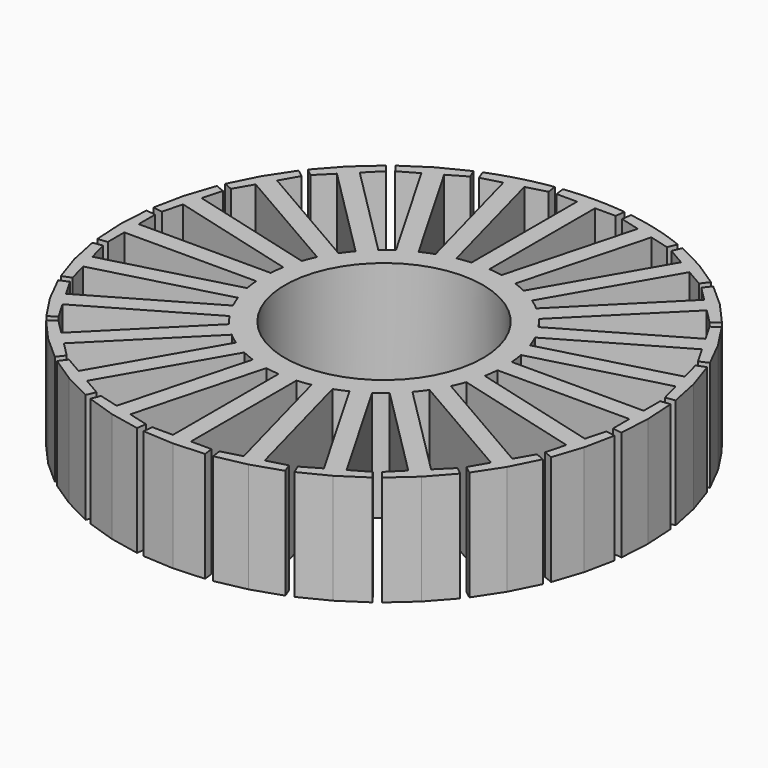
from build123d import *

# Parameters (mm, degrees)
F0_R     = 22.5
F1_DEPTH = 25


with BuildPart() as f1:
    # F0 (on Top) → F1 (new body)
    with BuildSketch(Plane.XY):
        with BuildLine():
            Line((0, 60), (7, 59.590268))
            ThreePointArc((7, 59.590268), (3.505991, 59.897479), (0, 60))
        make_face()
        with BuildLine():
            Line((6.745611, 57.424678), (7, 59.590268))
            Line((7, 59.590268), (0, 60))
            Line((0, 60), (-6.98808, 59.591667))
            Line((-6.98808, 59.591667), (-6.733966, 57.424678))
            Line((-6.733966, 57.424678), (-2.033966, 57.424678))
            Line((-2.033966, 57.424678), (-2.033966, 27.424678))
            ThreePointArc((-2.033966, 27.424678), (-3.58947, 27.264734), (-5.133369, 27.016634))
            ThreePointArc((-5.133369, 27.016634), (-7.117524, 26.56296), (-9.062689, 25.963776))
            ThreePointArc((-9.062689, 25.963776), (-10.523794, 25.406687), (-11.950873, 24.767451))
            ThreePointArc((-11.950873, 24.767451), (-13.75, 23.815699), (-15.473805, 22.733485))
            ThreePointArc((-15.473805, 22.733485), (-16.740939, 21.817217), (-17.953945, 20.830407))
            ThreePointArc((-17.953945, 20.830407), (-19.445436, 19.445436), (-20.830407, 17.953945))
            ThreePointArc((-20.830407, 17.953945), (-21.817217, 16.740939), (-22.733485, 15.473805))
            ThreePointArc((-22.733485, 15.473805), (-23.815699, 13.75), (-24.767451, 11.950873))
            ThreePointArc((-24.767451, 11.950873), (-25.406687, 10.523794), (-25.963776, 9.062689))
            ThreePointArc((-25.963776, 9.062689), (-26.56296, 7.117524), (-27.016634, 5.133369))
            ThreePointArc((-27.016634, 5.133369), (-27.264734, 3.58947), (-27.424678, 2.033966))
            ThreePointArc((-27.424678, 2.033966), (-27.5, 0), (-27.424678, -2.033966))
            ThreePointArc((-27.424678, -2.033966), (-27.264734, -3.58947), (-27.016634, -5.133369))
            ThreePointArc((-27.016634, -5.133369), (-26.56296, -7.117524), (-25.963776, -9.062689))
            ThreePointArc((-25.963776, -9.062689), (-25.406687, -10.523794), (-24.767451, -11.950873))
            ThreePointArc((-24.767451, -11.950873), (-23.815699, -13.75), (-22.733485, -15.473805))
            ThreePointArc((-22.733485, -15.473805), (-21.817217, -16.740939), (-20.830407, -17.953945))
            ThreePointArc((-20.830407, -17.953945), (-19.445436, -19.445436), (-17.953945, -20.830407))
            ThreePointArc((-17.953945, -20.830407), (-16.740939, -21.817217), (-15.473805, -22.733485))
            ThreePointArc((-15.473805, -22.733485), (-13.75, -23.815699), (-11.950873, -24.767451))
            ThreePointArc((-11.950873, -24.767451), (-10.523794, -25.406687), (-9.062689, -25.963776))
            ThreePointArc((-9.062689, -25.963776), (-7.117524, -26.56296), (-5.133369, -27.016634))
            ThreePointArc((-5.133369, -27.016634), (-3.58947, -27.264734), (-2.033966, -27.424678))
            ThreePointArc((-2.033966, -27.424678), (0, -27.5), (2.033966, -27.424678))
            ThreePointArc((2.033966, -27.424678), (3.58947, -27.264734), (5.133369, -27.016634))
            ThreePointArc((5.133369, -27.016634), (7.117524, -26.56296), (9.062689, -25.963776))
            ThreePointArc((9.062689, -25.963776), (10.523794, -25.406687), (11.950873, -24.767451))
            ThreePointArc((11.950873, -24.767451), (13.75, -23.815699), (15.473805, -22.733485))
            ThreePointArc((15.473805, -22.733485), (16.740939, -21.817217), (17.953945, -20.830407))
            ThreePointArc((17.953945, -20.830407), (19.445436, -19.445436), (20.830407, -17.953945))
            ThreePointArc((20.830407, -17.953945), (21.817217, -16.740939), (22.733485, -15.473805))
            ThreePointArc((22.733485, -15.473805), (23.815699, -13.75), (24.767451, -11.950873))
            ThreePointArc((24.767451, -11.950873), (25.406687, -10.523794), (25.963776, -9.062689))
            ThreePointArc((25.963776, -9.062689), (26.56296, -7.117524), (27.016634, -5.133369))
            ThreePointArc((27.016634, -5.133369), (27.264734, -3.58947), (27.424678, -2.033966))
            ThreePointArc((27.424678, -2.033966), (27.5, 0), (27.424678, 2.033966))
            ThreePointArc((27.424678, 2.033966), (27.264734, 3.58947), (27.016634, 5.133369))
            ThreePointArc((27.016634, 5.133369), (26.56296, 7.117524), (25.963776, 9.062689))
            ThreePointArc((25.963776, 9.062689), (25.406687, 10.523794), (24.767451, 11.950873))
            ThreePointArc((24.767451, 11.950873), (23.815699, 13.75), (22.733485, 15.473805))
            ThreePointArc((22.733485, 15.473805), (21.817217, 16.740939), (20.830407, 17.953945))
            ThreePointArc((20.830407, 17.953945), (19.445436, 19.445436), (17.953945, 20.830407))
            ThreePointArc((17.953945, 20.830407), (16.740939, 21.817217), (15.473805, 22.733485))
            ThreePointArc((15.473805, 22.733485), (13.75, 23.815699), (11.950873, 24.767451))
            ThreePointArc((11.950873, 24.767451), (10.523794, 25.406687), (9.062689, 25.963776))
            ThreePointArc((9.062689, 25.963776), (7.117524, 26.56296), (5.133369, 27.016634))
            ThreePointArc((5.133369, 27.016634), (3.58947, 27.264734), (2.033966, 27.424678))
            Line((2.033966, 27.424678), (2.045611, 57.424678))
            Line((2.045611, 57.424678), (6.745611, 57.424678))
        make_face()
        Circle(F0_R, mode=Mode.SUBTRACT)
        with BuildLine():
            Line((-6.98808, 59.591667), (0, 60))
            ThreePointArc((0, 60), (-3.5, 59.89783), (-6.98808, 59.591667))
        make_face()
        with BuildLine():
            Line((12.89794, 55.994409), (5.133369, 27.016634))
            ThreePointArc((5.133369, 27.016634), (7.117524, 26.56296), (9.062689, 25.963776))
            Line((9.062689, 25.963776), (16.838509, 54.938537))
            Line((16.838509, 54.938537), (21.37836, 53.722087))
            Line((21.37836, 53.722087), (22.184577, 55.748045))
            Line((22.184577, 55.748045), (15.529143, 57.95555))
            Line((15.529143, 57.95555), (8.673491, 59.369778))
            Line((8.673491, 59.369778), (8.358089, 57.210859))
            Line((8.358089, 57.210859), (12.89794, 55.994409))
        make_face()
        with BuildLine():
            ThreePointArc((-9.062689, 25.963776), (-7.117524, 26.56296), (-5.133369, 27.016634))
            Line((-5.133369, 27.016634), (-12.886692, 55.997423))
            Line((-12.886692, 55.997423), (-8.346841, 57.213872))
            Line((-8.346841, 57.213872), (-8.661615, 59.371512))
            Line((-8.661615, 59.371512), (-15.529143, 57.95555))
            Line((-15.529143, 57.95555), (-22.173425, 55.752482))
            Line((-22.173425, 55.752482), (-21.367112, 53.725101))
            Line((-21.367112, 53.725101), (-16.827261, 54.941551))
            Line((-16.827261, 54.941551), (-9.062689, 25.963776))
        make_face()
        with BuildLine():
            Line((26.950873, 50.748213), (11.950873, 24.767451))
            ThreePointArc((11.950873, 24.767451), (13.75, 23.815699), (15.473805, 22.733485))
            Line((15.473805, 22.733485), (30.48389, 48.708425))
            Line((30.48389, 48.708425), (34.554209, 46.358425))
            Line((34.554209, 46.358425), (35.857312, 48.106686))
            Line((35.857312, 48.106686), (30, 51.961524))
            Line((30, 51.961524), (23.743978, 55.101937))
            Line((23.743978, 55.101937), (22.880554, 53.098213))
            Line((22.880554, 53.098213), (26.950873, 50.748213))
        make_face()
        with BuildLine():
            ThreePointArc((15.529143, 57.95555), (12.121959, 58.762727), (8.673491, 59.369778))
            Line((8.673491, 59.369778), (15.529143, 57.95555))
        make_face()
        with BuildLine():
            ThreePointArc((-15.473805, 22.733485), (-13.75, 23.815699), (-11.950873, 24.767451))
            Line((-11.950873, 24.767451), (-26.940788, 50.754036))
            Line((-26.940788, 50.754036), (-22.870469, 53.104036))
            Line((-22.870469, 53.104036), (-23.732956, 55.106686))
            Line((-23.732956, 55.106686), (-30, 51.961524))
            Line((-30, 51.961524), (-35.847688, 48.113857))
            Line((-35.847688, 48.113857), (-34.544125, 46.364247))
            Line((-34.544125, 46.364247), (-30.473805, 48.714247))
            Line((-30.473805, 48.714247), (-15.473805, 22.733485))
        make_face()
        with BuildLine():
            Line((39.167148, 42.043611), (17.953945, 20.830407))
            ThreePointArc((17.953945, 20.830407), (19.445436, 19.445436), (20.830407, 17.953945))
            Line((20.830407, 17.953945), (42.051845, 39.158914))
            Line((42.051845, 39.158914), (45.375247, 35.835512))
            Line((45.375247, 35.835512), (47.08643, 37.186935))
            Line((47.08643, 37.186935), (42.426407, 42.426407))
            Line((42.426407, 42.426407), (37.196353, 47.07899))
            Line((37.196353, 47.07899), (35.843746, 45.367012))
            Line((35.843746, 45.367012), (39.167148, 42.043611))
        make_face()
        with BuildLine():
            Line((15.529143, 57.95555), (22.184577, 55.748045))
            ThreePointArc((22.184577, 55.748045), (18.889135, 56.949105), (15.529143, 57.95555))
        make_face()
        with BuildLine():
            Line((-15.529143, 57.95555), (-8.661615, 59.371512))
            ThreePointArc((-8.661615, 59.371512), (-12.116082, 58.763939), (-15.529143, 57.95555))
        make_face()
        with BuildLine():
            ThreePointArc((-20.830407, 17.953945), (-19.445436, 19.445436), (-17.953945, 20.830407))
            Line((-17.953945, 20.830407), (-39.158914, 42.051845))
            Line((-39.158914, 42.051845), (-35.835512, 45.375247))
            Line((-35.835512, 45.375247), (-37.186935, 47.08643))
            Line((-37.186935, 47.08643), (-42.426407, 42.426407))
            Line((-42.426407, 42.426407), (-47.07899, 37.196353))
            Line((-47.07899, 37.196353), (-45.367012, 35.843746))
            Line((-45.367012, 35.843746), (-42.043611, 39.167148))
            Line((-42.043611, 39.167148), (-20.830407, 17.953945))
        make_face()
        with BuildLine():
            ThreePointArc((-15.529143, 57.95555), (-18.883439, 56.950994), (-22.173425, 55.752482))
            Line((-22.173425, 55.752482), (-15.529143, 57.95555))
        make_face()
        with BuildLine():
            Line((48.714247, 30.473805), (22.733485, 15.473805))
            ThreePointArc((22.733485, 15.473805), (23.815699, 13.75), (24.767451, 11.950873))
            Line((24.767451, 11.950873), (50.754036, 26.940788))
            Line((50.754036, 26.940788), (53.104036, 22.870469))
            Line((53.104036, 22.870469), (55.106686, 23.732956))
            Line((55.106686, 23.732956), (51.961524, 30))
            Line((51.961524, 30), (48.113857, 35.847688))
            Line((48.113857, 35.847688), (46.364247, 34.544125))
            Line((46.364247, 34.544125), (48.714247, 30.473805))
        make_face()
        with BuildLine():
            ThreePointArc((-24.767451, 11.950873), (-23.815699, 13.75), (-22.733485, 15.473805))
            Line((-22.733485, 15.473805), (-48.708425, 30.48389))
            Line((-48.708425, 30.48389), (-46.358425, 34.554209))
            Line((-46.358425, 34.554209), (-48.106686, 35.857312))
            Line((-48.106686, 35.857312), (-51.961524, 30))
            Line((-51.961524, 30), (-55.101937, 23.743978))
            Line((-55.101937, 23.743978), (-53.098213, 22.880554))
            Line((-53.098213, 22.880554), (-50.748213, 26.950873))
            Line((-50.748213, 26.950873), (-24.767451, 11.950873))
        make_face()
        with BuildLine():
            Line((54.941551, 16.827261), (25.963776, 9.062689))
            ThreePointArc((25.963776, 9.062689), (26.56296, 7.117524), (27.016634, 5.133369))
            Line((27.016634, 5.133369), (55.997423, 12.886692))
            Line((55.997423, 12.886692), (57.213872, 8.346841))
            Line((57.213872, 8.346841), (59.371512, 8.661615))
            Line((59.371512, 8.661615), (57.95555, 15.529143))
            Line((57.95555, 15.529143), (55.752482, 22.173425))
            Line((55.752482, 22.173425), (53.725101, 21.367112))
            Line((53.725101, 21.367112), (54.941551, 16.827261))
        make_face()
        with BuildLine():
            ThreePointArc((-27.016634, 5.133369), (-26.56296, 7.117524), (-25.963776, 9.062689))
            Line((-25.963776, 9.062689), (-54.938537, 16.838509))
            Line((-54.938537, 16.838509), (-53.722087, 21.37836))
            Line((-53.722087, 21.37836), (-55.748045, 22.184577))
            Line((-55.748045, 22.184577), (-57.95555, 15.529143))
            Line((-57.95555, 15.529143), (-59.369778, 8.673491))
            Line((-59.369778, 8.673491), (-57.210859, 8.358089))
            Line((-57.210859, 8.358089), (-55.994409, 12.89794))
            Line((-55.994409, 12.89794), (-27.016634, 5.133369))
        make_face()
        with BuildLine():
            Line((57.424678, 2.033966), (27.424678, 2.033966))
            ThreePointArc((27.424678, 2.033966), (27.5, 0), (27.424678, -2.033966))
            Line((27.424678, -2.033966), (57.424678, -2.045611))
            Line((57.424678, -2.045611), (57.424678, -6.745611))
            Line((57.424678, -6.745611), (59.590268, -7))
            Line((59.590268, -7), (60, 0))
            Line((60, 0), (59.591667, 6.98808))
            Line((59.591667, 6.98808), (57.424678, 6.733966))
            Line((57.424678, 6.733966), (57.424678, 2.033966))
        make_face()
        with BuildLine():
            ThreePointArc((-27.424678, -2.033966), (-27.5, 0), (-27.424678, 2.033966))
            Line((-27.424678, 2.033966), (-57.424678, 2.045611))
            Line((-57.424678, 2.045611), (-57.424678, 6.745611))
            Line((-57.424678, 6.745611), (-59.590268, 7))
            Line((-59.590268, 7), (-60, 0))
            Line((-60, 0), (-59.591667, -6.98808))
            Line((-59.591667, -6.98808), (-57.424678, -6.733966))
            Line((-57.424678, -6.733966), (-57.424678, -2.033966))
            Line((-57.424678, -2.033966), (-27.424678, -2.033966))
        make_face()
        with BuildLine():
            Line((55.994409, -12.89794), (27.016634, -5.133369))
            ThreePointArc((27.016634, -5.133369), (26.56296, -7.117524), (25.963776, -9.062689))
            Line((25.963776, -9.062689), (54.938537, -16.838509))
            Line((54.938537, -16.838509), (53.722087, -21.37836))
            Line((53.722087, -21.37836), (55.748045, -22.184577))
            Line((55.748045, -22.184577), (57.95555, -15.529143))
            Line((57.95555, -15.529143), (59.369778, -8.673491))
            Line((59.369778, -8.673491), (57.210859, -8.358089))
            Line((57.210859, -8.358089), (55.994409, -12.89794))
        make_face()
        with BuildLine():
            ThreePointArc((-25.963776, -9.062689), (-26.56296, -7.117524), (-27.016634, -5.133369))
            Line((-27.016634, -5.133369), (-55.997423, -12.886692))
            Line((-55.997423, -12.886692), (-57.213872, -8.346841))
            Line((-57.213872, -8.346841), (-59.371512, -8.661615))
            Line((-59.371512, -8.661615), (-57.95555, -15.529143))
            Line((-57.95555, -15.529143), (-55.752482, -22.173425))
            Line((-55.752482, -22.173425), (-53.725101, -21.367112))
            Line((-53.725101, -21.367112), (-54.941551, -16.827261))
            Line((-54.941551, -16.827261), (-25.963776, -9.062689))
        make_face()
        with BuildLine():
            Line((50.748213, -26.950873), (24.767451, -11.950873))
            ThreePointArc((24.767451, -11.950873), (23.815699, -13.75), (22.733485, -15.473805))
            Line((22.733485, -15.473805), (48.708425, -30.48389))
            Line((48.708425, -30.48389), (46.358425, -34.554209))
            Line((46.358425, -34.554209), (48.106686, -35.857312))
            Line((48.106686, -35.857312), (51.961524, -30))
            Line((51.961524, -30), (55.101937, -23.743978))
            Line((55.101937, -23.743978), (53.098213, -22.880554))
            Line((53.098213, -22.880554), (50.748213, -26.950873))
        make_face()
        with BuildLine():
            ThreePointArc((-22.733485, -15.473805), (-23.815699, -13.75), (-24.767451, -11.950873))
            Line((-24.767451, -11.950873), (-50.754036, -26.940788))
            Line((-50.754036, -26.940788), (-53.104036, -22.870469))
            Line((-53.104036, -22.870469), (-55.106686, -23.732956))
            Line((-55.106686, -23.732956), (-51.961524, -30))
            Line((-51.961524, -30), (-48.113857, -35.847688))
            Line((-48.113857, -35.847688), (-46.364247, -34.544125))
            Line((-46.364247, -34.544125), (-48.714247, -30.473805))
            Line((-48.714247, -30.473805), (-22.733485, -15.473805))
        make_face()
        with BuildLine():
            Line((42.043611, -39.167148), (20.830407, -17.953945))
            ThreePointArc((20.830407, -17.953945), (19.445436, -19.445436), (17.953945, -20.830407))
            Line((17.953945, -20.830407), (39.158914, -42.051845))
            Line((39.158914, -42.051845), (35.835512, -45.375247))
            Line((35.835512, -45.375247), (37.186935, -47.08643))
            Line((37.186935, -47.08643), (42.426407, -42.426407))
            Line((42.426407, -42.426407), (47.07899, -37.196353))
            Line((47.07899, -37.196353), (45.367012, -35.843746))
            Line((45.367012, -35.843746), (42.043611, -39.167148))
        make_face()
        with BuildLine():
            ThreePointArc((-17.953945, -20.830407), (-19.445436, -19.445436), (-20.830407, -17.953945))
            Line((-20.830407, -17.953945), (-42.051845, -39.158914))
            Line((-42.051845, -39.158914), (-45.375247, -35.835512))
            Line((-45.375247, -35.835512), (-47.08643, -37.186935))
            Line((-47.08643, -37.186935), (-42.426407, -42.426407))
            Line((-42.426407, -42.426407), (-37.196353, -47.07899))
            Line((-37.196353, -47.07899), (-35.843746, -45.367012))
            Line((-35.843746, -45.367012), (-39.167148, -42.043611))
            Line((-39.167148, -42.043611), (-17.953945, -20.830407))
        make_face()
        with BuildLine():
            Line((30.473805, -48.714247), (15.473805, -22.733485))
            ThreePointArc((15.473805, -22.733485), (13.75, -23.815699), (11.950873, -24.767451))
            Line((11.950873, -24.767451), (26.940788, -50.754036))
            Line((26.940788, -50.754036), (22.870469, -53.104036))
            Line((22.870469, -53.104036), (23.732956, -55.106686))
            Line((23.732956, -55.106686), (30, -51.961524))
            Line((30, -51.961524), (35.847688, -48.113857))
            Line((35.847688, -48.113857), (34.544125, -46.364247))
            Line((34.544125, -46.364247), (30.473805, -48.714247))
        make_face()
        with BuildLine():
            ThreePointArc((-11.950873, -24.767451), (-13.75, -23.815699), (-15.473805, -22.733485))
            Line((-15.473805, -22.733485), (-30.48389, -48.708425))
            Line((-30.48389, -48.708425), (-34.554209, -46.358425))
            Line((-34.554209, -46.358425), (-35.857312, -48.106686))
            Line((-35.857312, -48.106686), (-30, -51.961524))
            Line((-30, -51.961524), (-23.743978, -55.101937))
            Line((-23.743978, -55.101937), (-22.880554, -53.098213))
            Line((-22.880554, -53.098213), (-26.950873, -50.748213))
            Line((-26.950873, -50.748213), (-11.950873, -24.767451))
        make_face()
        with BuildLine():
            Line((16.827261, -54.941551), (9.062689, -25.963776))
            ThreePointArc((9.062689, -25.963776), (7.117524, -26.56296), (5.133369, -27.016634))
            Line((5.133369, -27.016634), (12.886692, -55.997423))
            Line((12.886692, -55.997423), (8.346841, -57.213872))
            Line((8.346841, -57.213872), (8.661615, -59.371512))
            Line((8.661615, -59.371512), (15.529143, -57.95555))
            Line((15.529143, -57.95555), (22.173425, -55.752482))
            Line((22.173425, -55.752482), (21.367112, -53.725101))
            Line((21.367112, -53.725101), (16.827261, -54.941551))
        make_face()
        with BuildLine():
            ThreePointArc((-5.133369, -27.016634), (-7.117524, -26.56296), (-9.062689, -25.963776))
            Line((-9.062689, -25.963776), (-16.838509, -54.938537))
            Line((-16.838509, -54.938537), (-21.37836, -53.722087))
            Line((-21.37836, -53.722087), (-22.184577, -55.748045))
            Line((-22.184577, -55.748045), (-15.529143, -57.95555))
            Line((-15.529143, -57.95555), (-8.673491, -59.369778))
            Line((-8.673491, -59.369778), (-8.358089, -57.210859))
            Line((-8.358089, -57.210859), (-12.89794, -55.994409))
            Line((-12.89794, -55.994409), (-5.133369, -27.016634))
        make_face()
        with BuildLine():
            Line((2.033966, -57.424678), (2.033966, -27.424678))
            ThreePointArc((2.033966, -27.424678), (0, -27.5), (-2.033966, -27.424678))
            Line((-2.033966, -27.424678), (-2.045611, -57.424678))
            Line((-2.045611, -57.424678), (-6.745611, -57.424678))
            Line((-6.745611, -57.424678), (-7, -59.590268))
            Line((-7, -59.590268), (0, -60))
            Line((0, -60), (6.98808, -59.591667))
            Line((6.98808, -59.591667), (6.733966, -57.424678))
            Line((6.733966, -57.424678), (2.033966, -57.424678))
        make_face()
    extrude(amount=F1_DEPTH)


solid = f1.part
